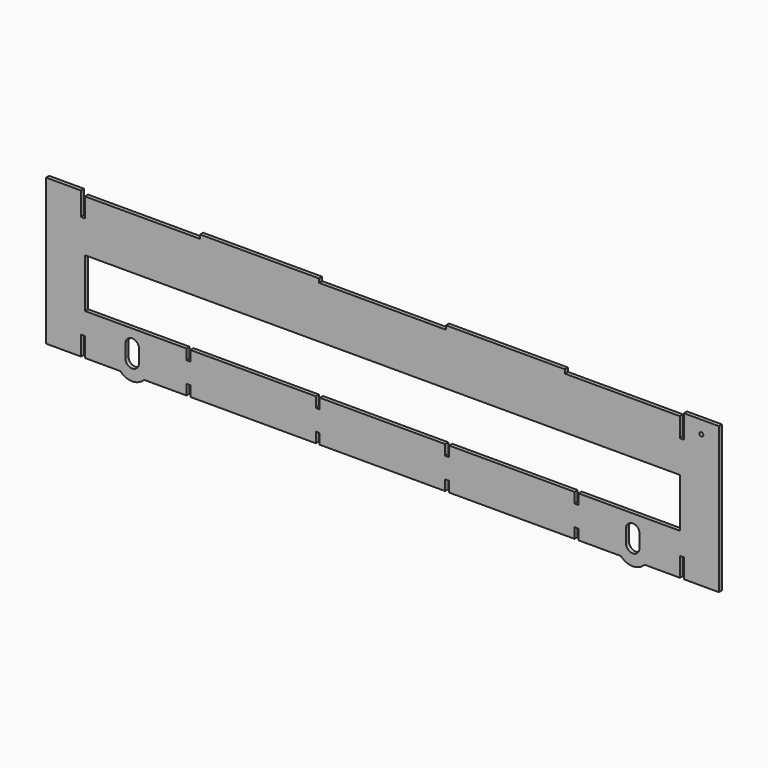
from build123d import *

# Parameters (mm, degrees)
F0_W     = 460
F0_H     = 38
F1_DEPTH = 3
F2_W     = 27
F2_H     = 3
F2_W_2   = 92
F3_DEPTH = 3
F5_DEPTH = 3
F6_W     = 3
F6_H     = 8
F7_DEPTH = 3
F9_DEPTH = 3
F11_D    = 3


with BuildPart() as f1:
    # F0 (on Front) → F1 (new body)
    with BuildSketch(Plane.XZ):
        Polygon((-343.484793, -216.105753), (-316.484793, -216.105753), (-316.484793, -106.105753), (-343.484793, -106.105753), (-343.484793, -121.105753), (-346.484793, -121.105753), (-346.484793, -106.105753), (-806.484793, -106.105753), (-806.484793, -121.105753), (-809.484793, -121.105753), (-809.484793, -106.105753), (-836.484793, -106.105753), (-836.484793, -216.105753), (-809.484793, -216.105753), (-809.484793, -201.105753), (-806.484793, -201.105753), (-806.484793, -216.105753), (-346.484793, -216.105753), (-346.484793, -201.105753), (-343.484793, -201.105753), align=None)
        with Locations((-576.484793, -165.105753)):
            Rectangle(F0_W, F0_H, mode=Mode.SUBTRACT)
    extrude(amount=F1_DEPTH)

    # F2 (on face) → F3 (join)
    with BuildSketch(Plane.XZ.offset(3)):
        with Locations((-822.984793, -104.605753)):
            Rectangle(F2_W, F2_H)
        with Locations((-329.984793, -104.605753)):
            Rectangle(F2_W, F2_H)
        with Locations((-671.484793, -104.605753)):
            Rectangle(F2_W_2, F2_H)
        with Locations((-481.484793, -104.605753)):
            Rectangle(F2_W_2, F2_H)
    extrude(amount=-F3_DEPTH)

    # F4 (on face) → F5 (cut, through all)
    with BuildSketch(Plane.XZ.offset(3)):
        with BuildLine():
            Line((-377.784793, -206.105753), (-377.784793, -196.105753))
            ThreePointArc((-377.784793, -196.105753), (-383.034793, -190.855753), (-388.284793, -196.105753))
            Line((-388.284793, -196.105753), (-388.284793, -206.105753))
            ThreePointArc((-388.284793, -206.105753), (-383.034793, -211.355753), (-377.784793, -206.105753))
        make_face()
        with BuildLine():
            Line((-764.684793, -206.105753), (-764.684793, -196.105753))
            ThreePointArc((-764.684793, -196.105753), (-769.934793, -190.855753), (-775.184793, -196.105753))
            Line((-775.184793, -196.105753), (-775.184793, -206.105753))
            ThreePointArc((-775.184793, -206.105753), (-769.934793, -211.355753), (-764.684793, -206.105753))
        make_face()
    extrude(amount=-F5_DEPTH, mode=Mode.SUBTRACT)

    # F6 (on face) → F7 (cut)
    with BuildSketch(Plane.XZ.offset(3)):
        with Locations((-726.484793, -212.105753)):
            Rectangle(F6_W, F6_H)
        with Locations((-726.484793, -188.105753)):
            Rectangle(F6_W, F6_H)
        with Locations((-626.484793, -188.105753)):
            Rectangle(F6_W, F6_H)
        with Locations((-626.484793, -212.105753)):
            Rectangle(F6_W, F6_H)
        with Locations((-526.484793, -188.105753)):
            Rectangle(F6_W, F6_H)
        with Locations((-526.484793, -212.105753)):
            Rectangle(F6_W, F6_H)
        with Locations((-426.484793, -188.105753)):
            Rectangle(F6_W, F6_H)
        with Locations((-426.484793, -212.105753)):
            Rectangle(F6_W, F6_H)
    extrude(amount=-F7_DEPTH, mode=Mode.SUBTRACT)

    # F8 (on face) → F9 (join)
    with BuildSketch(Plane.XZ.offset(3)):
        with BuildLine():
            Line((-760.769642, -216.105753), (-779.099944, -216.105753))
            ThreePointArc((-779.099944, -216.105753), (-769.934793, -220.105753), (-760.769642, -216.105753))
        make_face()
        with BuildLine():
            Line((-373.869642, -216.105753), (-392.199944, -216.105753))
            ThreePointArc((-392.199944, -216.105753), (-383.034793, -220.105753), (-373.869642, -216.105753))
        make_face()
    extrude(amount=-F9_DEPTH)

    # F11 (through all)
    with Locations(Plane(origin=(0, 0, 0), x_dir=(-1, 0, 0), z_dir=(0, 1, 0))):
        with Locations((329.984793, -113.105753)):
            Hole(F11_D / 2)


solid = f1.part
